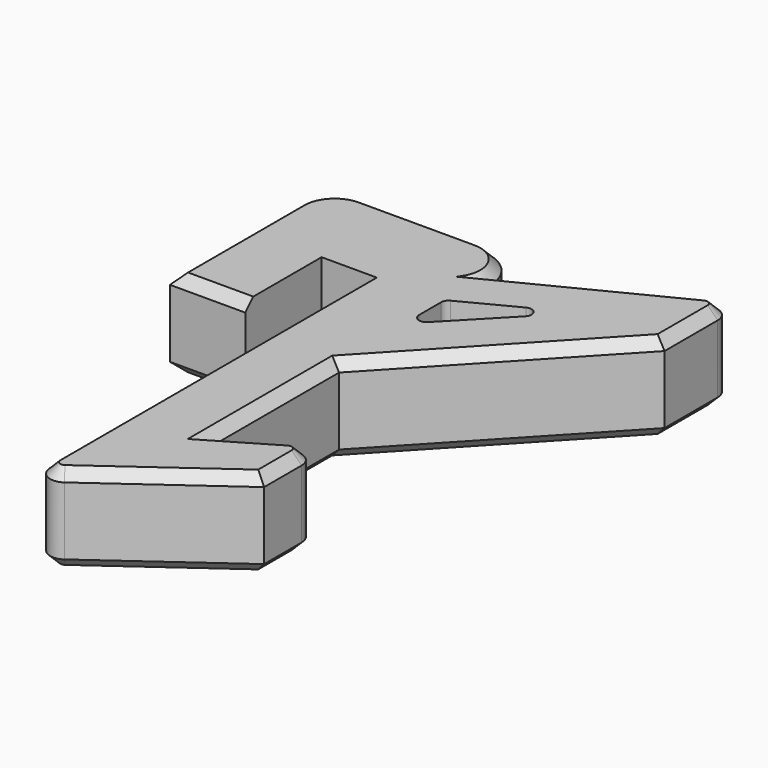
from build123d import *

# Parameters (mm, degrees)
F1_DEPTH = 17.5
F2_SIZE  = 2


with BuildPart() as f1:
    # F0 (on Top) → F1 (new body)
    with BuildSketch(Plane.XY):
        with BuildLine():
            Line((-9, 0), (0, 0))
            Line((0, 0), (0, -74.063597))
            Line((0, -74.063597), (0, -78.793663))
            ThreePointArc((0, -78.793663), (1.632225, -81.463717), (4.752794, -81.228352))
            Line((4.752794, -81.228352), (30, -63.052252))
            Line((30, -63.052252), (30, -53.707217))
            ThreePointArc((30, -53.707217), (28.48714, -51.101759), (25.474391, -51.124096))
            Line((25.474391, -51.124096), (15, -57.310343))
            Line((15, -57.310343), (15, -25.646459))
            Line((15, -25.646459), (50, 11.62539))
            Line((50, 11.62539), (50, 24.869028))
            ThreePointArc((50, 24.869028), (48.569777, 27.425549), (45.6428, 27.544474))
            Line((45.6428, 27.544474), (15, 12))
            ThreePointArc((15, 12), (12.656854, 17.656854), (7, 20))
            Line((7, 20), (-16, 20))
            ThreePointArc((-16, 20), (-21.656854, 17.656854), (-24, 12))
            Line((-24, 12), (-24, -19))
            Line((-24, -19), (-9, -19))
            Line((-9, -19), (-9, 0))
        make_face()
        with BuildLine():
            Line((15, -5.708684), (15, -0.238058))
            ThreePointArc((15, -0.238058), (15.217836, 0.540437), (15.808074, 1.09282))
            Line((15.808074, 1.09282), (26.400125, 6.599649))
            ThreePointArc((26.400125, 6.599649), (28.293982, 6.166191), (28.171491, 4.227228))
            Line((28.171491, 4.227228), (17.57944, -6.750226))
            ThreePointArc((17.57944, -6.750226), (15.938377, -7.099576), (15, -5.708684))
        make_face(mode=Mode.SUBTRACT)
    extrude(amount=F1_DEPTH)

    # F2
    f2_edges = [f1.edges().sort_by_distance(p)[0] for p in [
        (30.3214, 19.772237, 17.5),
        (32.5, -7.010534, 17.5),
        (50, 18.247209, 17.5),
        (15, -41.478401, 17.5),
        (20.237195, -54.217219, 17.5),
        (17.376397, -72.140302, 17.5),
        (-4.5, 20, 17.5),
        (12.656854, 17.656854, 17.5),
        (-16.5, -19, 17.5),
        (0, -39.396831, 17.5),
        (30, -58.379734, 0),
        (28.48714, -51.101759, 0),
        (15, -41.478401, 0),
        (32.5, -7.010534, 0),
        (50, 18.247209, 0),
        (30.3214, 19.772237, 0),
        (12.656854, 17.656854, 0),
        (-4.5, 20, 0),
        (-24, -3.5, 0),
        (-16.5, -19, 0),
        (17.376397, -72.140302, 0),
    ]]
    chamfer(f2_edges, length=F2_SIZE)


solid = f1.part
